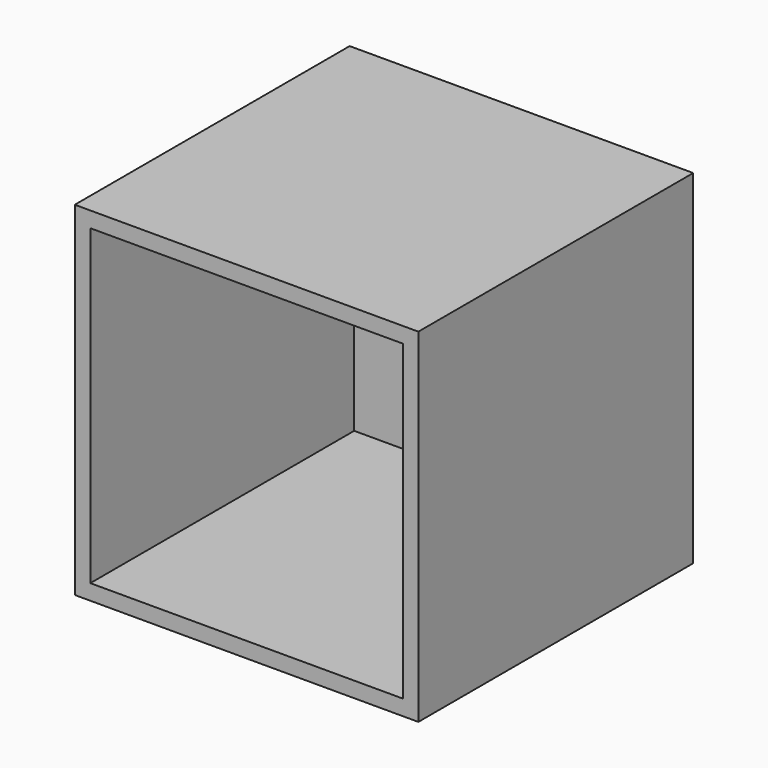
from build123d import *

# Parameters (mm, degrees)
F0_W     = 50.8
F0_H     = 50.8
F1_DEPTH = 50.8
F2_W     = 50.8
F2_H     = 50.8
F2_W_2   = 47.1678
F2_H_2   = 46.9646
F3_DEPTH = 49.53
F4_W     = 46.2026
F4_H     = 46.2026
F5_DEPTH = 48.768


with BuildPart() as f1:
    # F0 (on Front) → F1 (new body)
    with BuildSketch(Plane.XZ):
        with Locations((-25.4, 25.4)):
            Rectangle(F0_W, F0_H)
    extrude(amount=F1_DEPTH)

    # F2 (on face) → F3 (join)
    with BuildSketch(Plane.XZ.offset(50.8)):
        with Locations((-25.4, 25.4)):
            Rectangle(F2_W, F2_H)
        with Locations((-25.302492, 25.391847)):
            Rectangle(F2_W_2, F2_H_2, mode=Mode.SUBTRACT)
    extrude(amount=-F3_DEPTH)

    # F4 (on face) → F5 (cut)
    with BuildSketch(Plane.XZ.offset(50.8)):
        with Locations((-25.401182, 25.392756)):
            Rectangle(F4_W, F4_H)
    extrude(amount=-F5_DEPTH, mode=Mode.SUBTRACT)


solid = f1.part
